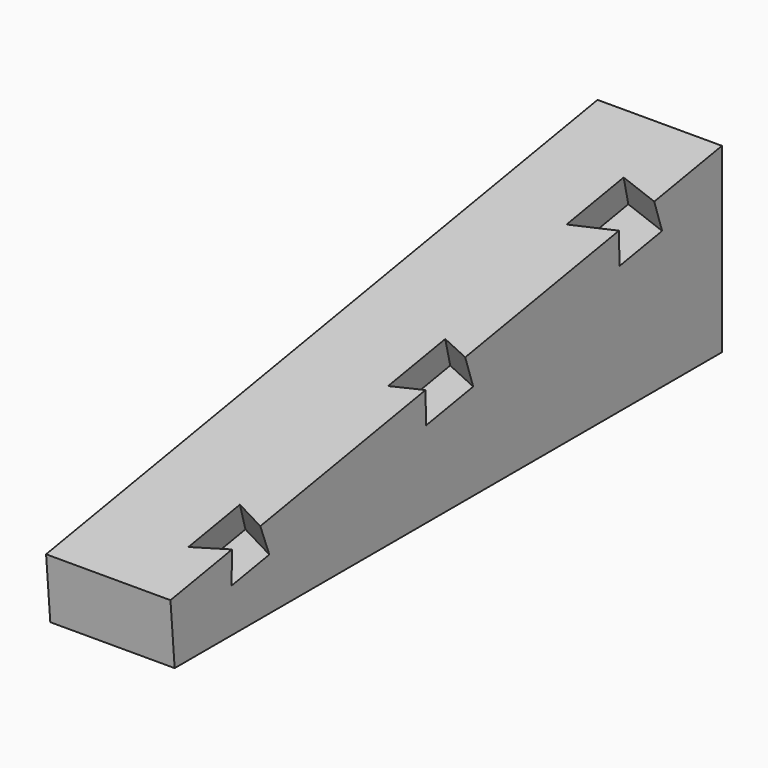
from build123d import *

# Parameters (mm, degrees)
F1_DEPTH = 50.8
F4_DEPTH = 12.7
F4_TAPER = -8
F6_DEPTH = 12.7
F6_TAPER = -10


with BuildPart() as f1:
    # F0 (on Right) → F1 (new body)
    with BuildSketch(Plane.YZ):
        Polygon((-140.8138120502, 0.6983735914), (-138.6619785664, -24.6103129146), (140.7380214336, -24.6103129146), (140.7380214336, 49.6335022594), align=None)
    extrude(amount=F1_DEPTH)

    # F3 (on face) → F4 (cut)
    with BuildSketch(Plane(origin=(0, -4.2468228402, 24.4344050926), x_dir=(1, 0, 0), z_dir=(0, -0.1712378928, 0.9852297113))):
        Polygon((33.9139047941, 117.6632965604), (33.9139047941, 88.0739117662), (50.8, 93.7783047557), (50.8, 112.0805814862), align=None)
        Polygon((50.8, -6.458433345), (50.8, 14.1357549945), (38.8870903277, 18.8930730025), (38.8870903277, -10.6963117917), align=None)
    extrude(amount=-F4_DEPTH, taper=F4_TAPER, mode=Mode.SUBTRACT)

    # F5 (on face) → F6 (cut)
    with BuildSketch(Plane(origin=(0, -4.2468228402, 24.4344050926), x_dir=(1, 0, 0), z_dir=(0, -0.1712378928, 0.9852297113))):
        Polygon((37.663642931, -112.632855773), (50.8, -106.7069470882), (50.8, -92.0567885041), (37.663642931, -85.9662666917), align=None)
    extrude(amount=-F6_DEPTH, taper=F6_TAPER, mode=Mode.SUBTRACT)


solid = f1.part
